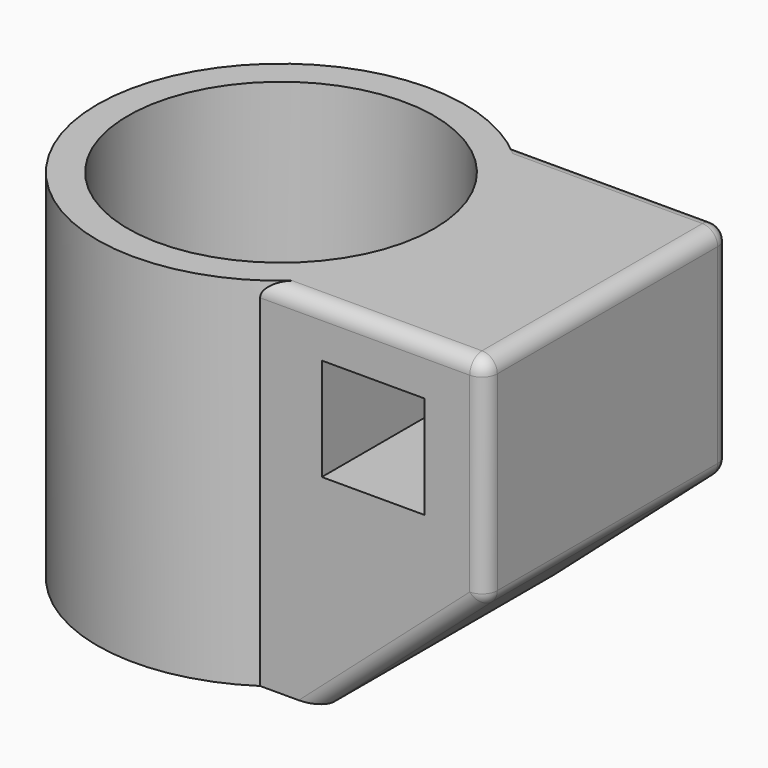
from build123d import *

# Parameters (mm, degrees)
SKETCH_R        = 30
PAD_DEPTH       = 70
SKETCH002_W     = 20.1
SKETCH002_H     = 20.1
POCKET_DEPTH    = 100
POCKET001_DEPTH = 100
FILLET_R        = 3


with BuildPart() as part:
    # Sketch → Pad (new body)
    with BuildSketch(Plane.XY):
        with BuildLine():
            ThreePointArc((19.899749, 30), (-36, 0), (19.899749, -30))
            Line((64, -30), (19.899749, -30))
            Line((64, 30), (64, -30))
            Line((19.899749, 30), (64, 30))
        make_face()
        Circle(SKETCH_R, mode=Mode.SUBTRACT)
    extrude(amount=PAD_DEPTH)

    # Sketch002 (on Face2 of Pad) → Pocket (cut)
    with BuildSketch(Plane.XZ.offset(30)):
        with Locations((42.05, 50.05)):
            Rectangle(SKETCH002_W, SKETCH002_H)
    extrude(amount=-POCKET_DEPTH, mode=Mode.SUBTRACT)

    # Sketch003 (on Face3 of Pocket) → Pocket001 (cut)
    with BuildSketch(Plane.XZ.offset(30)):
        Polygon((66, 30), (32, 0), (66, 0), align=None)
    extrude(amount=-POCKET001_DEPTH, mode=Mode.SUBTRACT)

    # Fillet
    fillet_edges = [part.edges().sort_by_distance(p)[0] for p in [
        (64, -30, 49.117647),
        (64, 30, 49.117647),
        (64, 0, 70),
        (64, 0, 28.235294),
        (48, 30, 14.117647),
        (48, -30, 14.117647),
        (41.949874, -30, 70),
        (41.949874, 30, 70),
    ]]
    fillet(fillet_edges, radius=FILLET_R)


solid = part.part
